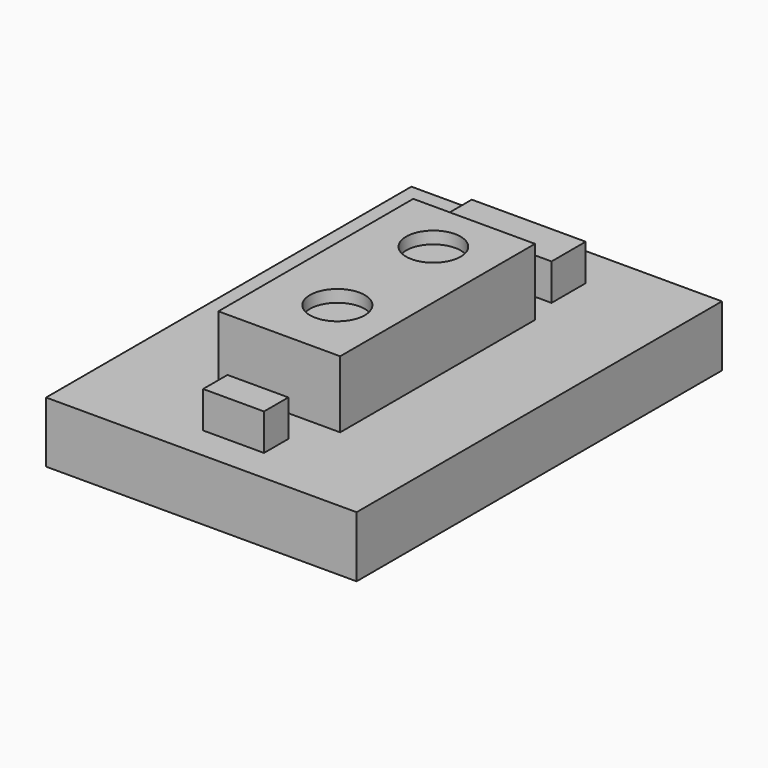
from build123d import *

# Parameters (mm, degrees)
F0_W     = 2
F0_H     = 4
F1_DEPTH = 1.1
F2_W     = 5.1
F2_H     = 7.5
F2_W_2   = 2
F2_H_2   = 4
F3_DEPTH = 1
F4_W     = 1
F4_H     = 0.5
F5_DEPTH = 0.6
F6_W     = 1.8708838616
F6_H     = 0.7016416639
F7_DEPTH = 0.6
F8_R     = 0.4472514361
F8_R_2   = 0.4500395483
F9_DEPTH = 0.2


with BuildPart() as f1:
    # F0 (on Top) → F1 (new body)
    with BuildSketch(Plane.XY):
        with Locations((1, 2)):
            Rectangle(F0_W, F0_H)
    extrude(amount=F1_DEPTH)

    # F8 (on face) → F9 (cut)
    with BuildSketch(Plane.XY.offset(1.1)):
        with Locations((1.031152322, 3.1248484738)):
            Circle(F8_R)
        with Locations((1.0847897502, 1.0866399389)):
            Circle(F8_R_2)
    extrude(amount=-F9_DEPTH, mode=Mode.SUBTRACT)


with BuildPart() as f3:
    # F2 (on face) → F3 (new body)
    with BuildSketch(Plane(origin=(0, 0, 0), x_dir=(1, 0, 0), z_dir=(0, 0, -1))):
        with Locations((1, -2.15)):
            Rectangle(F2_W, F2_H)
        with Locations((1, -2)):
            Rectangle(F2_W_2, F2_H_2, mode=Mode.SUBTRACT)
        with Locations((1, -2)):
            Rectangle(F2_W_2, F2_H_2)
    extrude(amount=F3_DEPTH)


with BuildPart() as f5:
    # F4 (on face) → F5 (new body)
    with BuildSketch(Plane.XY):
        with Locations((1.0948632934, -0.8069446901)):
            Rectangle(F4_W, F4_H)
    extrude(amount=F5_DEPTH)


with BuildPart() as f7:
    # F6 (on face) → F7 (new body)
    with BuildSketch(Plane.XY):
        with Locations((0.9354419308, 4.8516164534)):
            Rectangle(F6_W, F6_H)
    extrude(amount=F7_DEPTH)


solid = Compound([f1.part, f3.part, f5.part, f7.part])
